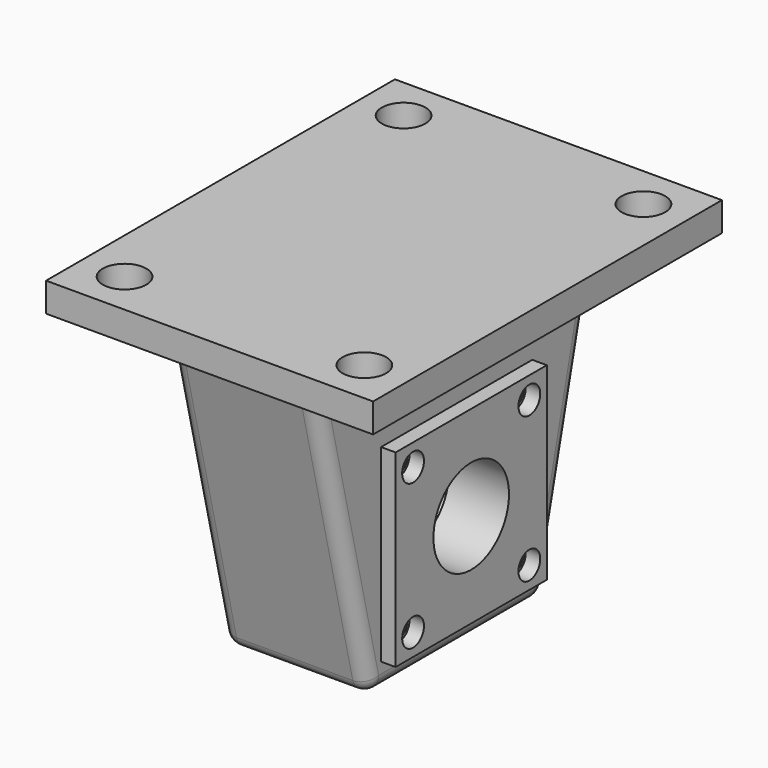
from build123d import *

# Parameters (mm, degrees)
F0_W      = 45
F0_H      = 60
F0_R      = 3
F1_DEPTH  = 4
F2_R      = 11.15
F3_DEPTH  = 10
F4_R      = 11.15
F4_R_2    = 6.5
F5_DEPTH  = 6.25
F6_R      = 10.65
F6_R_2    = 6.5
F7_DEPTH  = 6.25
F6_W      = 26
F6_H      = 26
F6_R_3    = 1.875
F6_R_4    = 11.15
F8_DEPTH  = 2
F9_R      = 1.5
F10_DEPTH = 11
F11_R     = 2


with BuildPart() as f1:
    # F0 (on Top) → F1 (new body)
    with BuildSketch(Plane.XY):
        Rectangle(F0_W, F0_H)
        with Locations((-16.5, -24)):
            Circle(F0_R, mode=Mode.SUBTRACT)
        with Locations((16.5, -24)):
            Circle(F0_R, mode=Mode.SUBTRACT)
        with Locations((-16.5, 24)):
            Circle(F0_R, mode=Mode.SUBTRACT)
        with Locations((16.5, 24)):
            Circle(F0_R, mode=Mode.SUBTRACT)
    extrude(amount=F1_DEPTH)

    # F2 (on Right) → F3 (join, symmetric)
    with BuildSketch(Plane.YZ):
        Polygon((15, -42), (25, 0), (-25, 0), (-15, -42), align=None)
        with Locations((0, -25.5)):
            Circle(F2_R, mode=Mode.SUBTRACT)
    extrude(amount=F3_DEPTH, both=True)

    # F4 (on face) → F5 (join)
    with BuildSketch(Plane(origin=(-10, 0, 0), x_dir=(0, -1, 0), z_dir=(-1, 0, 0))):
        with Locations((0, -25.5)):
            Circle(F4_R)
        with Locations((0, -25.5)):
            Circle(F4_R_2, mode=Mode.SUBTRACT)
    extrude(amount=-F5_DEPTH)

    # F9 (on face) → F10 (cut)
    with BuildSketch(Plane.YZ.offset(10)):
        with Locations((-10, -15.5)):
            Circle(F9_R)
        with Locations((10, -15.5)):
            Circle(F9_R)
        with Locations((10, -35.5)):
            Circle(F9_R)
        with Locations((-10, -35.5)):
            Circle(F9_R)
    extrude(amount=-F10_DEPTH, mode=Mode.SUBTRACT)

    # F11
    f11_edges = [f1.edges().sort_by_distance(p)[0] for p in [
        (10, 0, -42),
        (0, 15, -42),
        (-10, 0, -42),
        (0, -15, -42),
        (10, 20, -21),
        (-10, 20, -21),
        (10, -20, -21),
        (-10, -20, -21),
    ]]
    fillet(f11_edges, radius=F11_R)


with BuildPart() as f7:
    # F6 (on face) → F7 (new body)
    with BuildSketch(Plane.YZ.offset(10)):
        with Locations((0, -25.5)):
            Circle(F6_R)
        with Locations((0, -25.5)):
            Circle(F6_R_2, mode=Mode.SUBTRACT)
    extrude(amount=-F7_DEPTH)

    # F6 (on face) → F8 (join)
    with BuildSketch(Plane.YZ.offset(10)):
        with Locations((0, -25.5)):
            Rectangle(F6_W, F6_H)
        with Locations((-10, -35.5)):
            Circle(F6_R_3, mode=Mode.SUBTRACT)
        with Locations((10, -35.5)):
            Circle(F6_R_3, mode=Mode.SUBTRACT)
        with Locations((0, -25.5)):
            Circle(F6_R_4, mode=Mode.SUBTRACT)
        with Locations((-10, -15.5)):
            Circle(F6_R_3, mode=Mode.SUBTRACT)
        with Locations((10, -15.5)):
            Circle(F6_R_3, mode=Mode.SUBTRACT)
        with Locations((0, -25.5)):
            Circle(F6_R_4)
        with Locations((0, -25.5)):
            Circle(F6_R, mode=Mode.SUBTRACT)
        with Locations((0, -25.5)):
            Circle(F6_R)
        with Locations((0, -25.5)):
            Circle(F6_R_2, mode=Mode.SUBTRACT)
    extrude(amount=F8_DEPTH)


solid = Compound([f1.part, f7.part])
